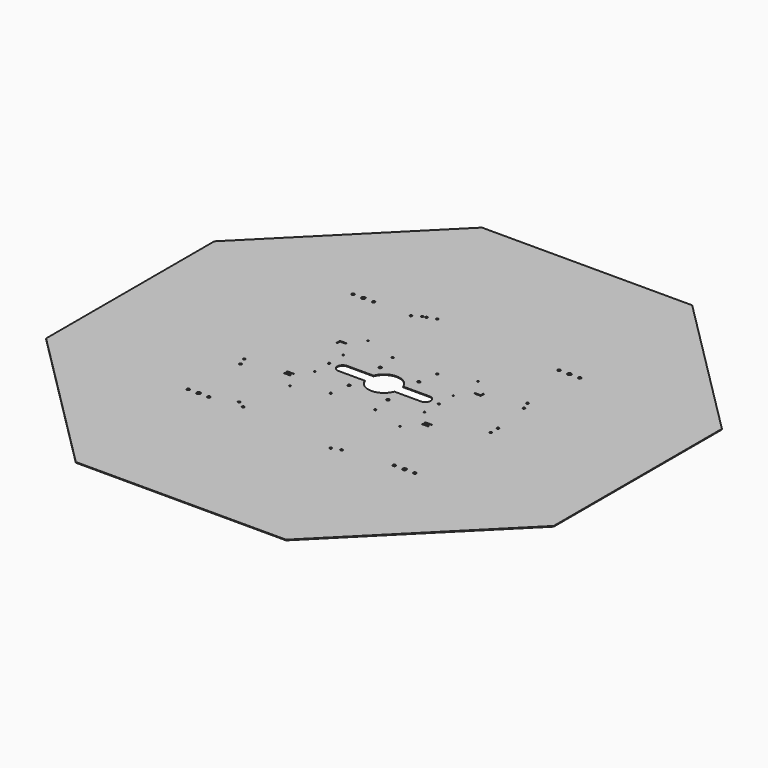
from build123d import *

# Parameters (mm, degrees)
SKETCH_R              = 23
SKETCH_R_2            = 2.75
SKETCH_R_3            = 2
PAD_DEPTH             = 1
SKETCH001_R           = 1.65
POCKET_DEPTH          = 1415.215977
POLARPATTERN_COUNT    = 3
POCKET001_DEPTH       = 5
SKETCH003_R           = 1.1
SKETCH003_R_2         = 1.45
POCKET002_DEPTH       = 1.001
SKETCH004_R           = 1.45
POCKET003_DEPTH       = 1.001
SKETCH005_R           = 2.1
POCKET004_DEPTH       = 1.001
SKETCH006_R           = 1.65
POCKET005_DEPTH       = 1415.215977
POLARPATTERN001_COUNT = 4
FILLET_R              = 15
PAD001_DEPTH          = 1


with BuildPart() as part:
    # Sketch → Pad (new body)
    with BuildSketch(Plane.XY):
        Polygon((103.553391, 250), (-103.553391, 250), (-250, 103.553391), (-250, -103.553391), (-103.553391, -250), (103.553391, -250), (250, -103.553391), (250, 103.553391), align=None)
        Circle(SKETCH_R, mode=Mode.SUBTRACT)
        with Locations((150, 150)):
            Circle(SKETCH_R_2, mode=Mode.SUBTRACT)
        with Locations((-150, 150)):
            Circle(SKETCH_R_2, mode=Mode.SUBTRACT)
        with Locations((-150, -150)):
            Circle(SKETCH_R_2, mode=Mode.SUBTRACT)
        with Locations((150, -150)):
            Circle(SKETCH_R_2, mode=Mode.SUBTRACT)
        with Locations((28.284271, 28.284271)):
            Circle(SKETCH_R_3, mode=Mode.SUBTRACT)
        with Locations((-28.284271, 28.284271)):
            Circle(SKETCH_R_3, mode=Mode.SUBTRACT)
        with Locations((-28.284271, -28.284271)):
            Circle(SKETCH_R_3, mode=Mode.SUBTRACT)
        with Locations((28.284271, -28.284271)):
            Circle(SKETCH_R_3, mode=Mode.SUBTRACT)
    extrude(amount=PAD_DEPTH)

    # Sketch001 → Pocket (cut, through all)
    with BuildSketch(Plane.XY):
        with Locations((169.926455, -5)):
            Circle(SKETCH001_R)
        with Locations((169.926455, -18)):
            Circle(SKETCH001_R)
    pocket = extrude(amount=POCKET_DEPTH, mode=Mode.SUBTRACT)

    # PolarPattern: Pocket ×3 about axis
    polarpattern_axis = Axis((0, 0, 0), (0, 0, 1))
    for i in range(1, POLARPATTERN_COUNT):
        add(pocket.rotate(polarpattern_axis, i * 360 / POLARPATTERN_COUNT), mode=Mode.SUBTRACT)

    # Sketch002 → Pocket001 (cut)
    with BuildSketch(Plane.XY):
        with BuildLine():
            ThreePointArc((-60, 8), (-68, 0), (-60, -8))
            Line((-60, -8), (60, -8))
            ThreePointArc((60, -8), (68, 0), (60, 8))
            Line((-60, 8), (60, 8))
        make_face()
    extrude(amount=POCKET001_DEPTH, mode=Mode.SUBTRACT)

    # Sketch003 → Pocket002 (cut, through all)
    with BuildSketch(Plane.XY):
        with Locations((-80, 71)):
            Circle(SKETCH003_R)
        with Locations((-80, 26)):
            Circle(SKETCH003_R)
        with Locations((-80, -26)):
            Circle(SKETCH003_R)
        with Locations((-80, -71)):
            Circle(SKETCH003_R)
        with Locations((-80, 0)):
            Circle(SKETCH003_R_2)
        with Locations((80, 71)):
            Circle(SKETCH003_R)
        with Locations((80, 26)):
            Circle(SKETCH003_R)
        with Locations((80, 0)):
            Circle(SKETCH003_R_2)
        with Locations((80, -26)):
            Circle(SKETCH003_R)
        with Locations((80, -71)):
            Circle(SKETCH003_R)
        Polygon((-95, 51), (-105, 51), (-105, 45), (-103.5, 45), (-103.5, 49.5), (-95, 49.5), align=None)
        Polygon((-105, -45), (-95, -45), (-101.312029, -49.5), (-96, -49.5), (-96, -51), (-106, -51), (-99.687971, -46.5), (-105, -46.5), align=None)
        Polygon((105, -51), (95, -51), (101.312029, -46.5), (96, -46.5), (96, -45), (106, -45), (99.687971, -49.5), (105, -49.5), align=None)
        Polygon((95, 45), (105, 45), (105, 51), (103.5, 51), (103.5, 46.5), (95, 46.5), align=None)
    extrude(amount=POCKET002_DEPTH, mode=Mode.SUBTRACT)

    # Sketch004 → Pocket003 (cut, through all)
    with BuildSketch(Plane.XY):
        with Locations((-32.5, -56.291651)):
            Circle(SKETCH004_R)
        with Locations((32.5, -56.291651)):
            Circle(SKETCH004_R)
        with Locations((-32.5, 56.291651)):
            Circle(SKETCH004_R)
        with Locations((32.5, 56.291651)):
            Circle(SKETCH004_R)
    extrude(amount=POCKET003_DEPTH, mode=Mode.SUBTRACT)

    # Sketch005 → Pocket004 (cut, through all)
    with BuildSketch(Plane.XY):
        with Locations((135, 150)):
            Circle(SKETCH005_R)
        with Locations((165, 150)):
            Circle(SKETCH005_R)
        with Locations((-165, 150)):
            Circle(SKETCH005_R)
        with Locations((-135, 150)):
            Circle(SKETCH005_R)
        with Locations((-165, -150)):
            Circle(SKETCH005_R)
        with Locations((-135, -150)):
            Circle(SKETCH005_R)
        with Locations((135, -150)):
            Circle(SKETCH005_R)
        with Locations((165, -150)):
            Circle(SKETCH005_R)
    extrude(amount=POCKET004_DEPTH, mode=Mode.SUBTRACT)

    # Sketch006 → Pocket005 (cut, through all)
    with BuildSketch(Plane.XY):
        with Locations((-161.970876, -52.035422)):
            Circle(SKETCH006_R)
        with Locations((-157.524615, -64.251426)):
            Circle(SKETCH006_R)
    pocket005 = extrude(amount=POCKET005_DEPTH, mode=Mode.SUBTRACT)

    # PolarPattern001: Pocket005 ×4 about axis
    polarpattern001_axis = Axis((0, 0, 0), (0, 0, 1))
    for i in range(1, POLARPATTERN001_COUNT):
        add(pocket005.rotate(polarpattern001_axis, i * 360 / POLARPATTERN001_COUNT), mode=Mode.SUBTRACT)

    # Fillet
    fillet_edges = [part.edges().sort_by_distance(p)[0] for p in [
        (-250, -103.553391, 0.5),
        (-103.553391, -250, 0.5),
        (103.553391, -250, 0.5),
        (-250, 103.553391, 0.5),
        (-103.553391, 250, 0.5),
        (103.553391, 250, 0.5),
        (250, 103.553391, 0.5),
        (250, -103.553391, 0.5),
    ]]
    fillet(fillet_edges, radius=FILLET_R)

    # Sketch007 → Pad001 (join)
    with BuildSketch(Plane.XY):
        Polygon((369.551813, 153.073373), (153.073373, 369.551813), (-153.073373, 369.551813), (-369.551813, 153.073373), (-369.551813, -153.073373), (-153.073373, -369.551813), (153.073373, -369.551813), (369.551813, -153.073373), align=None)
        Polygon((241.421356, 100), (100, 241.421356), (-100, 241.421356), (-241.421356, 100), (-241.421356, -100), (-100, -241.421356), (100, -241.421356), (241.421356, -100), align=None, mode=Mode.SUBTRACT)
    extrude(amount=PAD001_DEPTH)


solid = part.part
